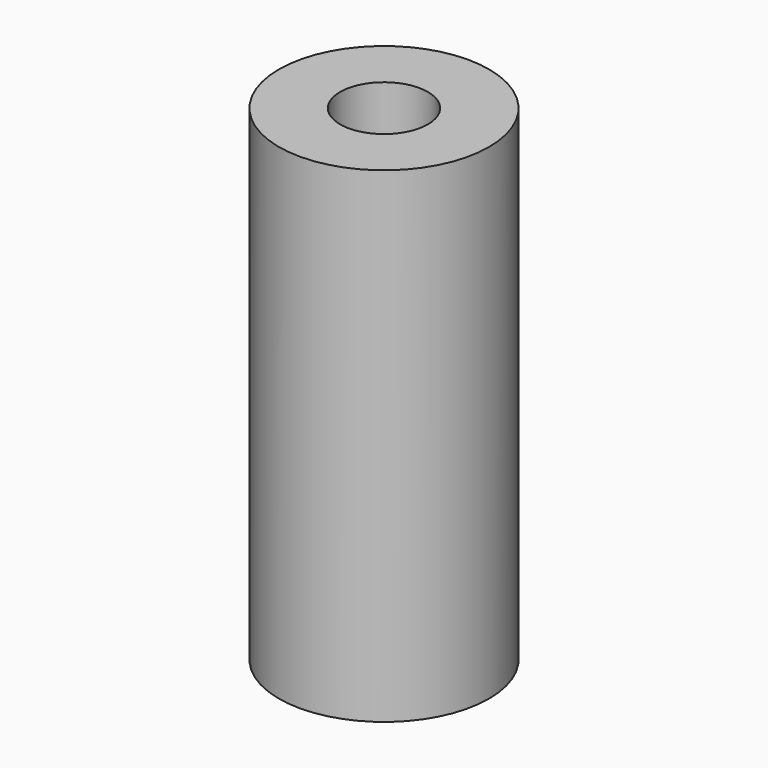
from build123d import *

# Parameters (mm, degrees)
F0_R     = 27.480462
F0_R_2   = 11.475205
F1_DEPTH = 127
F2_R     = 26.7589
F3_DEPTH = 38.1


with BuildPart() as f1:
    # F0 (on Top) → F1 (new body)
    with BuildSketch(Plane.XY):
        Circle(F0_R)
        Circle(F0_R_2, mode=Mode.SUBTRACT)
    extrude(amount=F1_DEPTH)


with BuildPart() as f3:
    # F2 (on Front) → F3 (new body, symmetric)
    with BuildSketch(Plane.XZ):
        with Locations((-124.147885, 27.501423)):
            Circle(F2_R)
    extrude(amount=F3_DEPTH, both=True)


solid = f1.part
